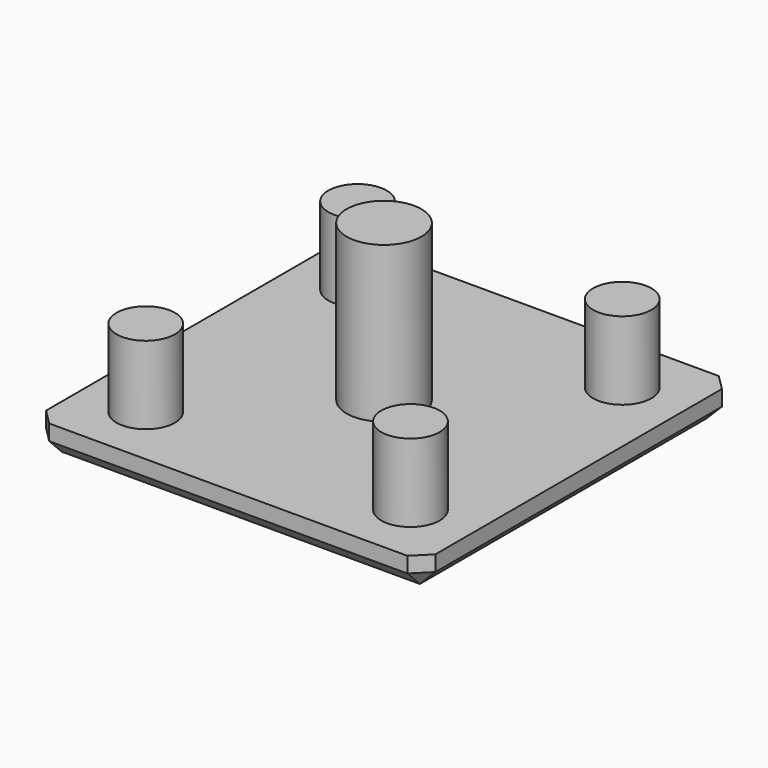
from build123d import *

# Parameters (mm, degrees)
F0_W     = 25
F0_H     = 25
F1_DEPTH = 2
F2_R     = 2.4
F3_DEPTH = 10
F4_R     = 1.875
F5_DEPTH = 5
F6_SIZE  = 1


with BuildPart() as f1:
    # F0 (on Top) → F1 (new body)
    with BuildSketch(Plane.XY):
        Rectangle(F0_W, F0_H)
    extrude(amount=F1_DEPTH)

    # F2 (on face) → F3 (join)
    with BuildSketch(Plane.XY.offset(2)):
        Circle(F2_R)
    extrude(amount=F3_DEPTH)

    # F4 (on face) → F5 (join)
    with BuildSketch(Plane.XY.offset(2)):
        with Locations((-8.5, 8.5)):
            Circle(F4_R)
        with Locations((8.5, 8.5)):
            Circle(F4_R)
        with Locations((8.5, -8.5)):
            Circle(F4_R)
        with Locations((-8.5, -8.5)):
            Circle(F4_R)
    extrude(amount=F5_DEPTH)

    # F6
    f6_edges = [f1.edges().sort_by_distance(p)[0] for p in [
        (0, -12.5, 0),
        (12.5, 0, 0),
        (0, 12.5, 0),
        (-12.5, 0, 0),
        (-12.5, -12.5, 1),
        (12.5, -12.5, 1),
        (12.5, 12.5, 1),
        (-12.5, 12.5, 1),
    ]]
    chamfer(f6_edges, length=F6_SIZE)


solid = f1.part
